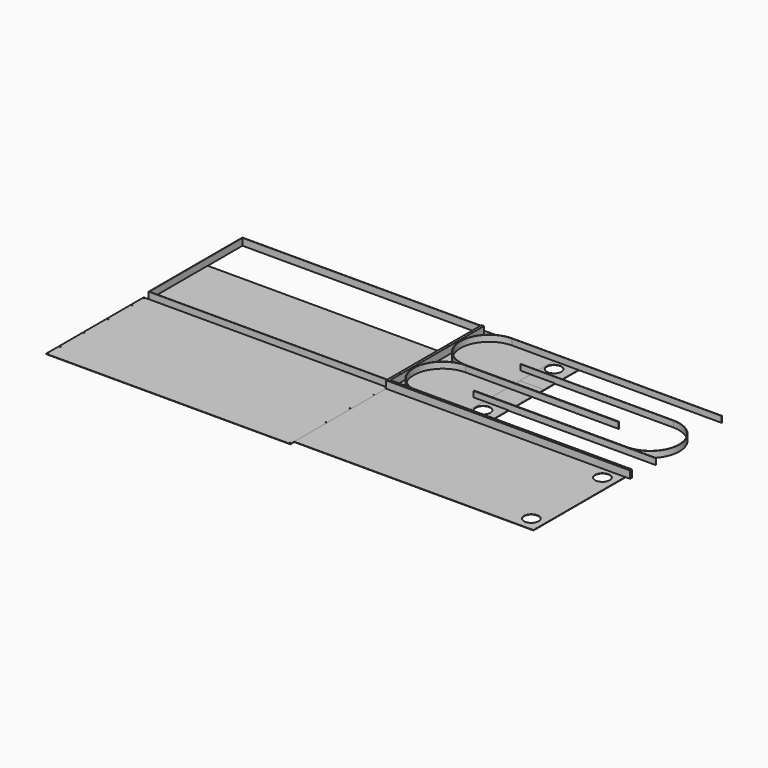
from build123d import *

# Parameters (mm, degrees)
F0_W      = 600
F0_H      = 1000
F1_DEPTH  = 3
F2_W      = 200
F2_H      = 600
F2_R      = 60
F3_DEPTH  = 3
F4_W      = 200
F4_H      = 400
F4_R      = 60
F5_DEPTH  = 3
F6_W      = 910.5
F6_H      = 3
F6_W_2    = 1372.5
F7_DEPTH  = 50
F10_DEPTH = 50
F11_W     = 1960
F11_H     = 960
F11_R     = 60
F12_DEPTH = 3
F13_W     = 1960
F13_H     = 600
F14_DEPTH = 1
F15_W     = 20
F15_H     = 60
F16_DEPTH = 2000
F18_D     = 5
F19_W     = 20
F19_H     = 60
F20_DEPTH = 960
F22_D     = 7
F23_W     = 2000
F23_H     = 1000
F24_DEPTH = 3
F26_D     = 7
F27_W     = 1960
F27_H     = 960
F27_W_2   = 1954
F27_H_2   = 954
F28_DEPTH = 57
F29_W     = 1492
F29_H     = 3
F30_DEPTH = 50


with BuildPart() as f1:
    # F0 (on Top) → F1 (new body)
    with BuildSketch(Plane.XY):
        with Locations((300, 500)):
            Rectangle(F0_W, F0_H)
    extrude(amount=F1_DEPTH)


with BuildPart() as f3:
    # F2 (on Top) → F3 (new body)
    with BuildSketch(Plane.XY):
        with Locations((700, 300)):
            Rectangle(F2_W, F2_H)
        with Locations((670, 136.25)):
            Circle(F2_R, mode=Mode.SUBTRACT)
    extrude(amount=F3_DEPTH)


with BuildPart() as f5:
    # F4 (on Top) → F5 (new body)
    with BuildSketch(Plane.XY):
        with Locations((700, 800)):
            Rectangle(F4_W, F4_H)
        with Locations((670, 863.75)):
            Circle(F4_R, mode=Mode.SUBTRACT)
    extrude(amount=F5_DEPTH)


with BuildPart() as f7:
    # F6 (on face) → F7 (new body)
    with BuildSketch(Plane.XY.offset(3)):
        with Locations((1055.25, 475.5)):
            Rectangle(F6_W, F6_H)
        with BuildLine():
            Line((600, 477), (257, 477))
            ThreePointArc((257, 477), (18.5, 238.5), (257, 0))
            Line((257, 0), (600, 0))
            Line((600, 0), (600, 3))
            Line((600, 3), (257, 3))
            ThreePointArc((257, 3), (21.5, 238.5), (257, 474))
            Line((257, 474), (600, 474))
            Line((600, 474), (600, 477))
        make_face()
        with Locations((1286.25, 1.5)):
            Rectangle(F6_W_2, F6_H)
    extrude(amount=F7_DEPTH)


with BuildPart() as f8_1:
    # F8: instance of F7
    add(f7.part.mirror(Plane(origin=(883.75, 477, 28), x_dir=(-1, 0, 0), z_dir=(0, 1, 0))))


with BuildPart() as f10:
    # F9 (on Top) → F10 (new body)
    with BuildSketch(Plane.XY):
        with BuildLine():
            Line((514, 238.5), (1767.5, 238.5))
            ThreePointArc((1767.5, 238.5), (2006, 477), (1767.5, 715.5))
            Line((1767.5, 715.5), (514, 715.5))
            Line((514, 715.5), (514, 712.5))
            Line((514, 712.5), (1767.5, 712.5))
            ThreePointArc((1767.5, 712.5), (2003, 477), (1767.5, 241.5))
            Line((1767.5, 241.5), (514, 241.5))
            Line((514, 241.5), (514, 238.5))
        make_face()
    extrude(amount=F10_DEPTH)


with BuildPart() as f12:
    # F11 (on Top) → F12 (new body)
    with BuildSketch(Plane.XY):
        with Locations((980, -480)):
            Rectangle(F11_W, F11_H)
        with Locations((1850, -843.75)):
            Circle(F11_R, mode=Mode.SUBTRACT)
        with Locations((1850, -116.25)):
            Circle(F11_R, mode=Mode.SUBTRACT)
    extrude(amount=F12_DEPTH)


with BuildPart() as f14:
    # F13 (on Top) → F14 (new body)
    with BuildSketch(Plane.XY):
        with Locations((-980, 300)):
            Rectangle(F13_W, F13_H)
    extrude(amount=F14_DEPTH)


with BuildPart() as f16:
    # F15 (on Right) → F16 (new body)
    with BuildSketch(Plane.YZ):
        with Locations((-10, 33)):
            Rectangle(F15_W, F15_H)
    extrude(amount=F16_DEPTH)

    # F18 (through all)
    with Locations(Plane.XY.offset(63)):
        with Locations((10, -10), (1990, -10)):
            Hole(F18_D / 2)


with BuildPart() as f20:
    # F19 (on Front) → F20 (new body)
    with BuildSketch(Plane.XZ):
        with Locations((10, 33)):
            Rectangle(F19_W, F19_H)
    extrude(amount=-F20_DEPTH)

    # F22 (through all)
    with Locations(Plane.XY.offset(63)):
        with Locations((10, 112.5), (10, 357.5), (10, 602.5), (10, 847.5)):
            Hole(F22_D / 2)


with BuildPart() as f24:
    # F23 (on Top) → F24 (new body)
    with BuildSketch(Plane.XY):
        with Locations((-1000, -500)):
            Rectangle(F23_W, F23_H)
    extrude(amount=F24_DEPTH)

    # F26 (through all)
    with Locations(Plane.XY.offset(3)):
        with Locations((-1990, -990), (-1990, -867.5), (-1990, -622.5), (-1990, -377.5), (-1990, -132.5), (-1990, -10), (-10, -10), (-10, -990), (-10, -867.5), (-10, -622.5), (-10, -377.5), (-10, -132.5)):
            Hole(F26_D / 2)


with BuildPart() as f28:
    # F27 (on Top) → F28 (new body)
    with BuildSketch(Plane.XY):
        with Locations((-980, 480)):
            Rectangle(F27_W, F27_H)
        with Locations((-980, 480)):
            Rectangle(F27_W_2, F27_H_2, mode=Mode.SUBTRACT)
    extrude(amount=F28_DEPTH)


with BuildPart() as f30:
    # F29 (on Top) → F30 (new body)
    with BuildSketch(Plane.XY):
        with Locations((1260, 237)):
            Rectangle(F29_W, F29_H)
    extrude(amount=F30_DEPTH)


solid = Compound([f1.part, f3.part, f5.part, f7.part, f8_1.part, f10.part, f12.part, f14.part, f16.part, f20.part, f24.part, f28.part, f30.part])
